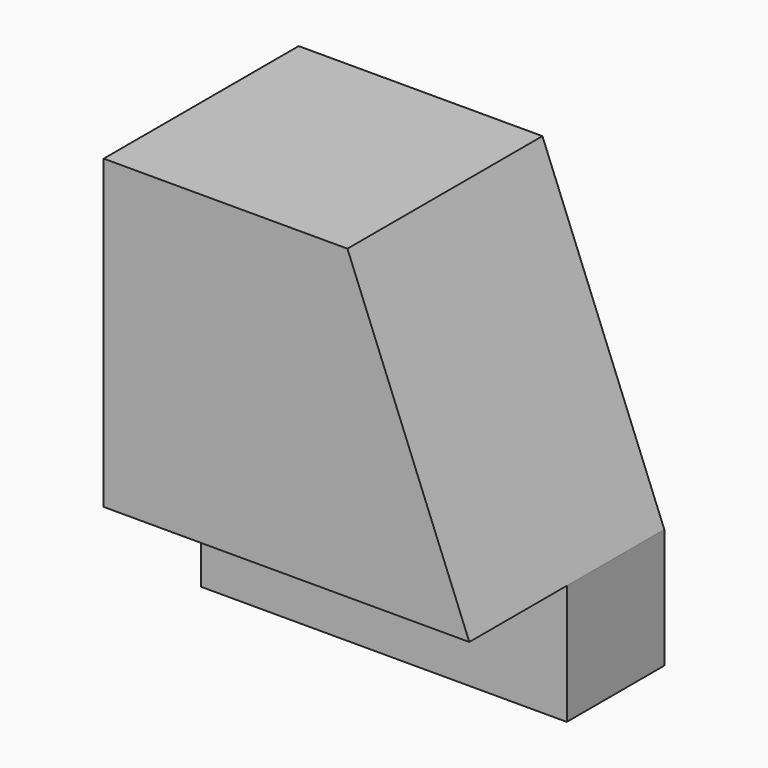
from build123d import *

# Parameters (mm, degrees)
F0_W     = 38.1
F0_H     = 44.45
F1_DEPTH = 12.7
F3_DEPTH = 25.4
F5_DEPTH = 12.7


with BuildPart() as f1:
    # F0 (on Front) → F1 (new body)
    with BuildSketch(Plane.XZ):
        with Locations((19.05, 22.225)):
            Rectangle(F0_W, F0_H)
    extrude(amount=F1_DEPTH)

    # F2 (on face) → F3 (cut)
    with BuildSketch(Plane.XZ.offset(12.7)):
        Polygon((38.1, 44.45), (25.4, 44.45), (38.1, 12.495001), align=None)
    extrude(amount=-F3_DEPTH, mode=Mode.SUBTRACT)

    # F4 (on face) → F5 (join)
    with BuildSketch(Plane.XZ.offset(12.7)):
        Polygon((0, 12.495001), (38.1, 12.495001), (25.4, 44.45), (0, 44.45), align=None)
    extrude(amount=F5_DEPTH)


solid = f1.part
